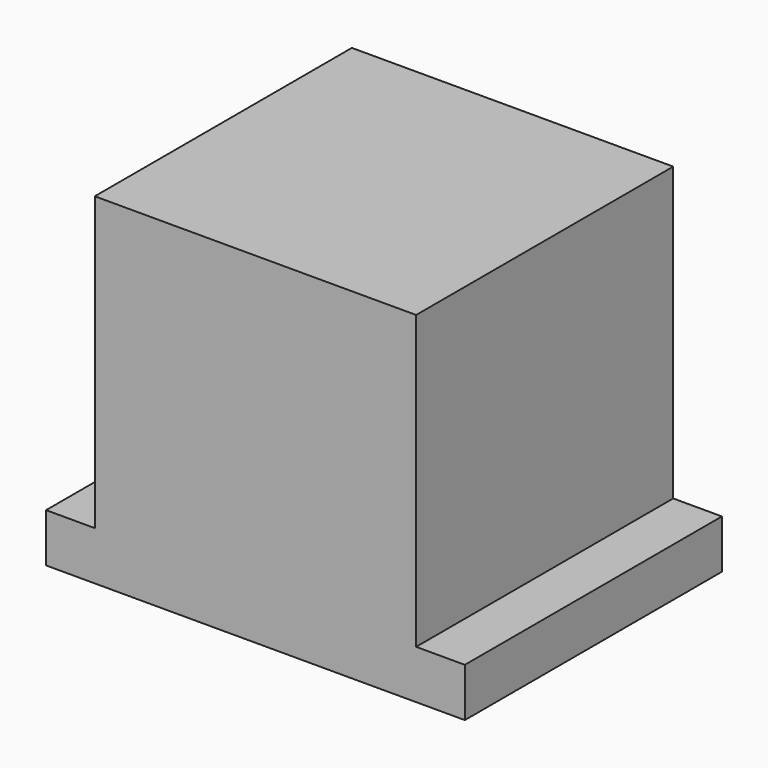
from build123d import *

# Parameters (mm, degrees)
SKETCH014_W      = 2.5
SKETCH014_H      = 3.5
EXTRUDE015_DEPTH = 4.5
EXTRUDE014_DEPTH = 6.6


with BuildPart() as extrude015:
    # Sketch014 → Extrude015 (new body)
    with BuildSketch(Plane(origin=(0, 0, -10), x_dir=(1, 0, 0), z_dir=(0, 0, -1))):
        Rectangle(SKETCH014_W, SKETCH014_H)
    extrude(amount=-EXTRUDE015_DEPTH)


with BuildPart() as extrude015_1:
    # Extrude015 placement: moved
    add(extrude015.part.moved(Location((0, 0, 10))))


with BuildPart() as cut023:
    # Sketch013 → Extrude014 (new body)
    with BuildSketch(Plane.XZ.offset(10)):
        Polygon((-3.3, 7), (3.3, 7), (3.3, 1), (4.3, 1), (4.3, 0), (-4.3, 0), (-4.3, 1), (-3.3, 1), align=None)
    extrude(amount=-EXTRUDE014_DEPTH)


with BuildPart() as cut023_1:
    # Extrude014 placement: moved
    add(cut023.part.moved(Location((0, 6.75, 0))))

    # Cut023: cut Extrude015
    add(extrude015_1.part, mode=Mode.SUBTRACT)


solid = cut023_1.part
